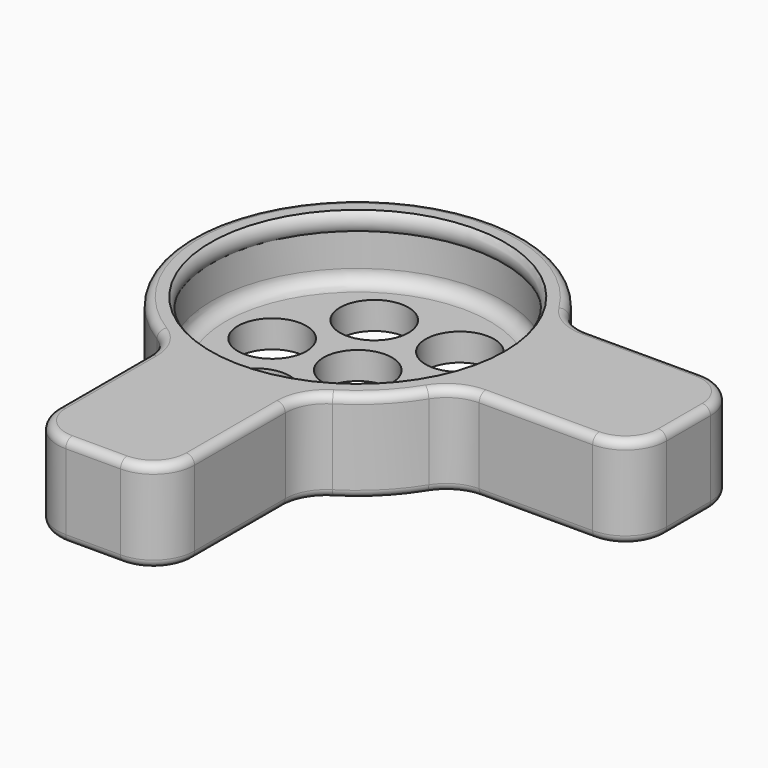
from build123d import *

# Parameters (mm, degrees)
F3_DEPTH = 8.5269614104
F4_R     = 3.81
F5_R     = 0.762
F7_R     = 3.175
F8_DEPTH = 25.4


with BuildPart() as f1:
    # F0 (on Front) → F1 (revolve)
    with BuildSketch(Plane.XZ):
        with BuildLine():
            Line((15.4305, 0), (15.4305, 6.7130385896))
            ThreePointArc((15.4305, 6.7130385896), (14.4451376493, 6.3536610654), (13.5255, 6.858))
            Line((13.5255, 6.858), (13.5255, 3.81))
            ThreePointArc((13.5255, 3.81), (13.1535256121, 2.9119743879), (12.2555, 2.54))
            Line((12.2555, 2.54), (0, 2.54))
            Line((0, 2.54), (0, 0))
            Line((0, 0), (15.4305, 0))
        make_face()
        with BuildLine():
            ThreePointArc((13.5255, 6.858), (14.4451376493, 6.3536610654), (15.4305, 6.7130385896))
            Line((15.4305, 6.7130385896), (15.4305, 8.5269614104))
            Line((15.4305, 8.5269614104), (13.6525, 8.5269614104))
            ThreePointArc((13.6525, 8.5269614104), (13.2751610654, 7.7163623507), (13.5255, 6.858))
        make_face()
    revolve(axis=Axis((0, 0, 4.2298094004), (0, 0, -1)))

    # F2 (on face) → F3 (join, through all)
    with BuildSketch(Plane.XY.offset(8.5269614104)):
        with BuildLine():
            Line((30.6705, -6.35), (30.6705, 6.35))
            Line((30.6705, 6.35), (14.0633506054, 6.35))
            ThreePointArc((14.0633506054, 6.35), (15.4305, 0), (14.0633506054, -6.35))
            Line((14.0633506054, -6.35), (30.6705, -6.35))
        make_face()
        with BuildLine():
            Line((-6.35, -30.6705), (6.35, -30.6705))
            Line((6.35, -30.6705), (6.35, -14.0633506054))
            ThreePointArc((6.35, -14.0633506054), (0, -15.4305), (-6.35, -14.0633506054))
            Line((-6.35, -14.0633506054), (-6.35, -30.6705))
        make_face()
    extrude(amount=-F3_DEPTH)

    # F4
    f4_edges = [f1.edges().sort_by_distance(p)[0] for p in [
        (-6.35, -30.6705, 4.263481),
        (-6.35, -14.063351, 4.263481),
        (6.35, -30.6705, 4.263481),
        (6.35, -14.063351, 4.263481),
        (14.063351, -6.35, 4.263481),
        (30.6705, -6.35, 4.263481),
        (30.6705, 6.35, 4.263481),
        (14.063351, 6.35, 4.263481),
    ]]
    fillet(f4_edges, radius=F4_R)

    # F5
    f5_edges = [f1.edges().sort_by_distance(p)[0] for p in [
        (0, -30.6705, 8.526961),
        (0, -30.6705, 0),
    ]]
    fillet(f5_edges, radius=F5_R)

    # F7 (on face) → F8 (cut)
    with BuildSketch(Plane.XY.offset(2.54)):
        with Locations((-3.96875, 6.8740766425)):
            Circle(F7_R)
        Circle(F7_R)
        with Locations((-7.9375, 0)):
            Circle(F7_R)
        with Locations((-3.96875, -6.8740766425)):
            Circle(F7_R)
        with Locations((3.96875, -6.8740766425)):
            Circle(F7_R)
        with Locations((7.9375, 0)):
            Circle(F7_R)
        with Locations((3.96875, 6.8740766425)):
            Circle(F7_R)
    extrude(amount=-F8_DEPTH, mode=Mode.SUBTRACT)


solid = f1.part
